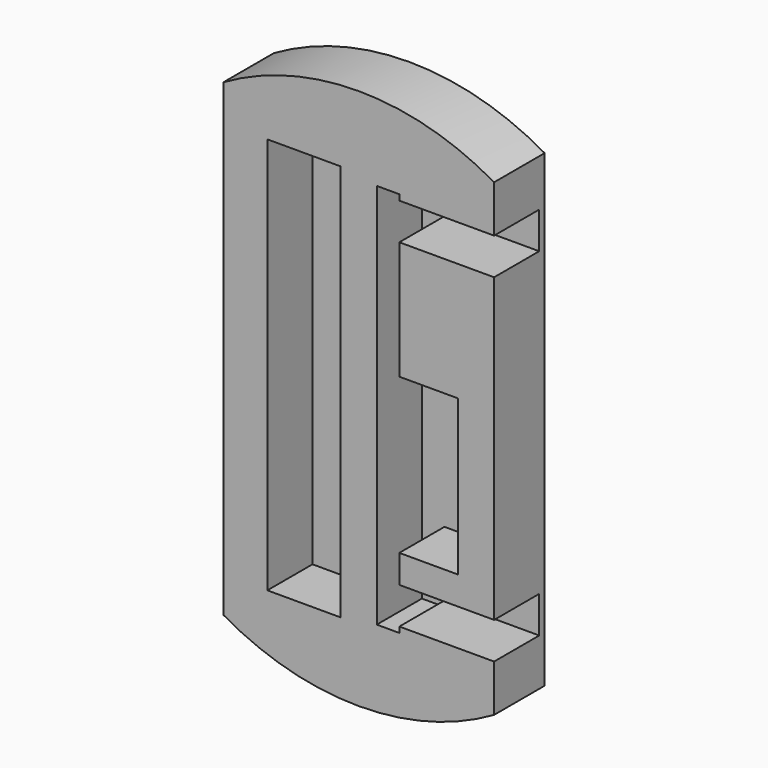
from build123d import *

# Parameters (mm, degrees)
F0_R     = 38.1
F1_DEPTH = 8.89
F2_W     = 10.31875
F2_H     = 55.88
F3_DEPTH = 7.9375
F5_DEPTH = 7.9375
F6_W     = 39.77474
F6_H     = 108.857153
F7_DEPTH = 25.4


with BuildPart() as f1:
    # F0 (on Front) → F1 (new body)
    with BuildSketch(Plane.XZ):
        Circle(F0_R)
    extrude(amount=F1_DEPTH)

    # F2 (on face) → F3 (cut)
    with BuildSketch(Plane.XZ.offset(8.89)):
        with Locations((-7.699375, 0)):
            Rectangle(F2_W, F2_H)
    extrude(amount=-F3_DEPTH, mode=Mode.SUBTRACT)

    # F4 (on face) → F5 (cut)
    with BuildSketch(Plane.XZ.offset(8.89)):
        with BuildLine():
            Line((5.715, 27.178), (2.54, 27.178))
            Line((2.54, 27.178), (2.54, -27.178))
            Line((2.54, -27.178), (5.715, -27.178))
            Line((5.715, -27.178), (5.715, -26.38425))
            Line((5.715, -26.38425), (12.12081, -26.38425))
            Line((12.12081, -26.38425), (27.486021, -26.38425))
            ThreePointArc((27.486021, -26.38425), (29.675547, -23.895018), (31.640396, -21.224875))
            Line((31.640396, -21.224875), (13.97, -21.224875))
            Line((13.97, -21.224875), (12.12081, -21.224875))
            Line((12.12081, -21.224875), (5.715, -21.224875))
            Line((5.715, -21.224875), (5.715, -17.256125))
            Line((5.715, -17.256125), (13.97, -17.256125))
            Line((13.97, -17.256125), (13.97, 4.572))
            Line((13.97, 4.572), (5.715, 4.572))
            Line((5.715, 4.572), (5.715, 21.224875))
            Line((5.715, 21.224875), (12.12081, 21.224875))
            Line((12.12081, 21.224875), (13.97, 21.224875))
            Line((13.97, 21.224875), (31.640396, 21.224875))
            ThreePointArc((31.640396, 21.224875), (29.675547, 23.895018), (27.486021, 26.38425))
            Line((27.486021, 26.38425), (12.12081, 26.38425))
            Line((12.12081, 26.38425), (5.715, 26.38425))
            Line((5.715, 26.38425), (5.715, 27.178))
        make_face()
    extrude(amount=-F5_DEPTH, mode=Mode.SUBTRACT)

    # F6 (on face) → F7 (cut)
    with BuildSketch(Plane.XZ.offset(8.89)):
        with Locations((38.93737, -0.989815)):
            Rectangle(F6_W, F6_H)
        with Locations((-38.93737, -0.989815)):
            Rectangle(F6_W, F6_H)
    extrude(amount=-F7_DEPTH, mode=Mode.SUBTRACT)


solid = f1.part
